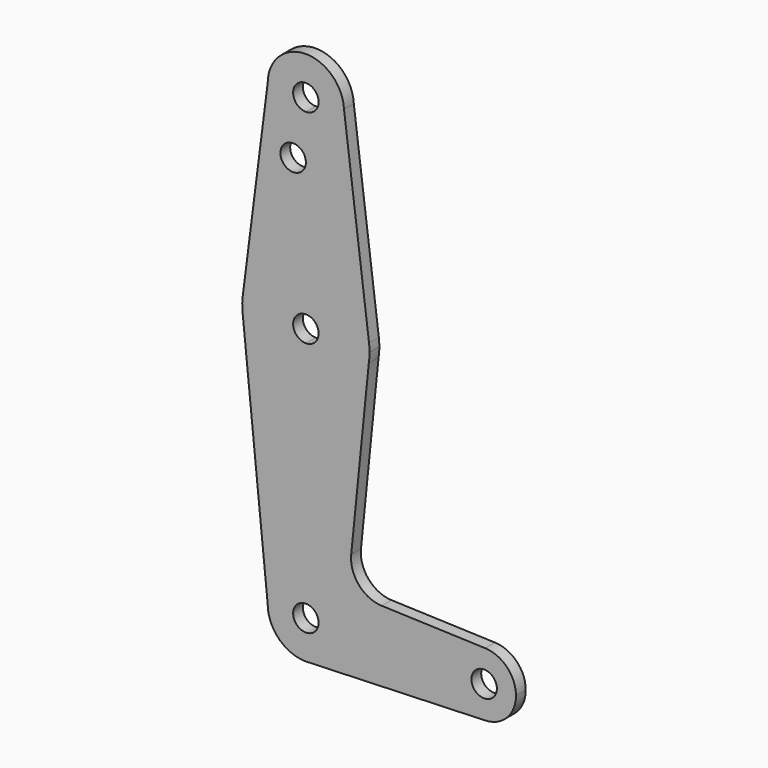
from build123d import *

# Parameters (mm, degrees)
F0_R     = 3.175
F1_DEPTH = 3.048


with BuildPart() as f1:
    # F0 (on Front) → F1 (new body)
    with BuildSketch(Plane.XZ):
        with BuildLine():
            ThreePointArc((-9.5248834192, 50.8471259087), (-6.7518330578, 44.0814900938), (0, 41.275))
            ThreePointArc((0, 41.275), (6.7351920908, 44.0648079092), (9.525, 50.8))
            ThreePointArc((9.525, 50.8), (9.5225214616, 51.0172786552), (9.5150871362, 51.2344442326))
            ThreePointArc((9.5150871362, 51.2344442326), (-0.1937210954, 60.3230298297), (-9.5248834192, 50.8471259087))
        make_face()
        with BuildLine():
            ThreePointArc((3.175, 50.8), (2.2450640303, 48.5549359697), (0, 47.625))
            ThreePointArc((0, 47.625), (-2.2450640303, 53.0450640303), (3.175, 50.8))
        make_face(mode=Mode.SUBTRACT)
        with BuildLine():
            ThreePointArc((9.525, 50.8), (6.7351920908, 44.0648079092), (0, 41.275))
            Line((0, 41.275), (0, 36.5252))
            Line((0, 36.5252), (0, 15.875))
            ThreePointArc((0, 15.875), (10.4919901799, 11.9135958915), (15.7476952567, 2.0064194728))
            Line((15.7476952567, 2.0064194728), (9.5150871362, 51.2344442326))
            ThreePointArc((9.5150871362, 51.2344442326), (9.5225214616, 51.0172786552), (9.525, 50.8))
        make_face()
        with BuildLine():
            Line((0, 36.5252), (0, 41.275))
            ThreePointArc((0, 41.275), (-6.7518330578, 44.0814900938), (-9.5248834192, 50.8471259087))
            Line((-9.5248834192, 50.8471259087), (-15.7476952567, 2.0064194728))
            ThreePointArc((-15.7476952567, 2.0064194728), (-10.4919901799, 11.9135958915), (0, 15.875))
            Line((0, 15.875), (0, 36.5252))
        make_face()
        with Locations((-3.175, 36.5252)):
            Circle(F0_R, mode=Mode.SUBTRACT)
        with BuildLine():
            ThreePointArc((15.7476952567, 2.0064194728), (10.4919901799, 11.9135958915), (0, 15.875))
            Line((0, 15.875), (0, 3.175))
            ThreePointArc((0, 3.175), (2.2450640303, 2.2450640303), (3.175, 0))
            ThreePointArc((3.175, 0), (2.2450640303, -2.2450640303), (0, -3.175))
            Line((0, -3.175), (0, -15.875))
            ThreePointArc((0, -15.875), (10.3187068621, -12.0639924442), (15.6831246133, -2.4607371583))
            ThreePointArc((15.6831246133, -2.4607371583), (15.8269584608, -1.2341032702), (15.875, 0))
            ThreePointArc((15.875, 0), (15.8431418475, 1.0052270388), (15.7476952567, 2.0064194728))
        make_face()
        with BuildLine():
            Line((0, 3.175), (0, 15.875))
            ThreePointArc((0, 15.875), (-10.4919901799, 11.9135958915), (-15.7476952567, 2.0064194728))
            ThreePointArc((-15.7476952567, 2.0064194728), (-15.873341851, -0.2294416742), (-15.6831246133, -2.4607371583))
            ThreePointArc((-15.6831246133, -2.4607371583), (-10.3187068621, -12.0639924442), (0, -15.875))
            Line((0, -15.875), (0, -3.175))
            ThreePointArc((0, -3.175), (-3.175, 0), (0, 3.175))
        make_face()
        with BuildLine():
            ThreePointArc((0, -15.875), (-10.3187068621, -12.0639924442), (-15.6831246133, -2.4607371583))
            Line((-15.6831246133, -2.4607371583), (-9.525, -63.5))
            ThreePointArc((-9.525, -63.5), (-6.7351920908, -56.7648079092), (0, -53.975))
            Line((0, -53.975), (0, -15.875))
        make_face()
        with BuildLine():
            ThreePointArc((15.6831246133, -2.4607371583), (10.3187068621, -12.0639924442), (0, -15.875))
            Line((0, -15.875), (0, -53.975))
            ThreePointArc((0, -53.975), (6.7351920908, -56.7648079092), (9.525, -63.5))
            Line((9.525, -63.5), (36.5125, -63.5))
            ThreePointArc((36.5125, -63.5), (38.9380895153, -57.7883672161), (44.7324052746, -55.5675253854))
            Line((44.7324052746, -55.5675253854), (18.9272478579, -54.6488319235))
            ThreePointArc((18.9272478579, -54.6488319235), (13.2191301198, -51.9299355543), (11.3000587671, -45.905637195))
            Line((11.3000587671, -45.905637195), (15.6831246133, -2.4607371583))
        make_face()
        with BuildLine():
            ThreePointArc((0, -53.975), (-6.7351920908, -56.7648079092), (-9.525, -63.5))
            ThreePointArc((-9.525, -63.5), (-6.7351920908, -70.2351920908), (0, -73.025))
            Line((0, -73.025), (0.6773435479, -73.000885786))
            ThreePointArc((0.6773435479, -73.000885786), (6.9705567315, -69.9912990883), (9.525, -63.5))
            Line((9.525, -63.5), (3.175, -63.5))
            ThreePointArc((3.175, -63.5), (-2.2450640303, -65.7450640303), (0, -60.325))
            Line((0, -60.325), (0, -53.975))
        make_face()
        with BuildLine():
            Line((0.6773435479, -73.000885786), (0, -73.025))
            ThreePointArc((0, -73.025), (0.3388863295, -73.0189695375), (0.6773435479, -73.000885786))
        make_face()
        with BuildLine():
            Line((36.5125, -63.5), (9.525, -63.5))
            ThreePointArc((9.525, -63.5), (6.9705567315, -69.9912990883), (0.6773435479, -73.000885786))
            Line((0.6773435479, -73.000885786), (44.7324052746, -71.4324746146))
            ThreePointArc((44.7324052746, -71.4324746146), (38.9380895153, -69.2116327839), (36.5125, -63.5))
        make_face()
        with BuildLine():
            ThreePointArc((44.7324052746, -55.5675253854), (38.9380895153, -57.7883672161), (36.5125, -63.5))
            ThreePointArc((36.5125, -63.5), (38.9380895153, -69.2116327839), (44.7324052746, -71.4324746146))
            ThreePointArc((44.7324052746, -71.4324746146), (50.1616327839, -69.0119104847), (52.3875, -63.5))
            ThreePointArc((52.3875, -63.5), (50.1616327839, -57.9880895153), (44.7324052746, -55.5675253854))
        make_face()
        with BuildLine():
            ThreePointArc((47.625, -63.5), (44.45, -66.675), (41.275, -63.5))
            ThreePointArc((41.275, -63.5), (44.45, -60.325), (47.625, -63.5))
        make_face(mode=Mode.SUBTRACT)
        with BuildLine():
            ThreePointArc((9.525, -63.5), (6.7351920908, -56.7648079092), (0, -53.975))
            Line((0, -53.975), (0, -60.325))
            ThreePointArc((0, -60.325), (2.2450640303, -61.2549359697), (3.175, -63.5))
            Line((3.175, -63.5), (9.525, -63.5))
        make_face()
    extrude(amount=F1_DEPTH)


solid = f1.part
